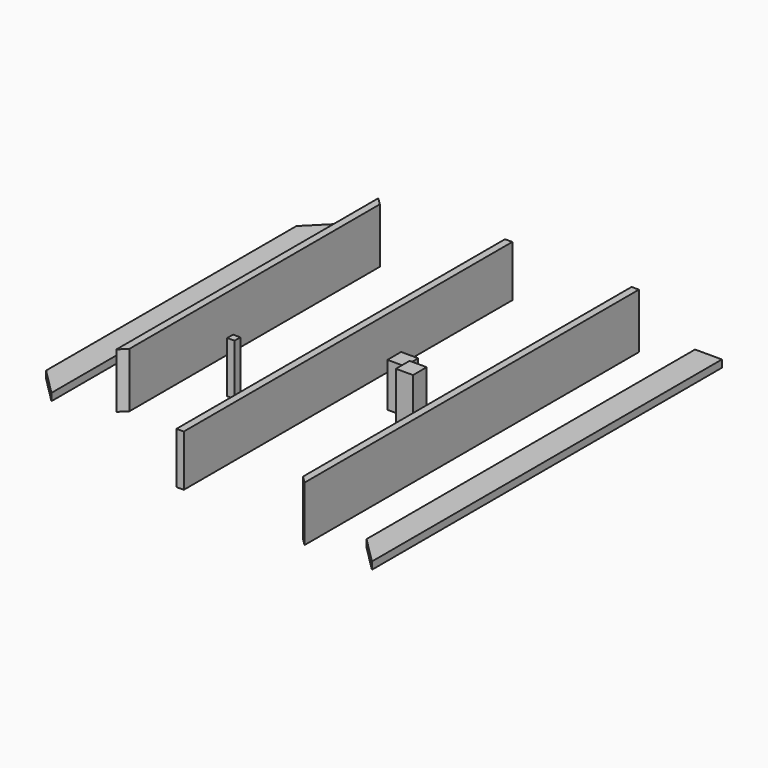
from build123d import *

# Parameters (mm, degrees)
F0_W      = 38.1
F0_H      = 2209.8
F1_DEPTH  = 285.75
F3_DEPTH  = 285.751
F4_W      = 38.1
F4_H      = 1701.8
F5_DEPTH  = 285.75
F7_DEPTH  = 285.751
F9_DEPTH  = 285.751
F10_W     = 38.1
F10_H     = 2133.6
F11_DEPTH = 266.7
F12_W     = 38.1
F12_H     = 38.1
F13_DEPTH = 266.7
F14_W     = 88.9
F14_H     = 88.9
F15_DEPTH = 228.6
F16_W     = 139.7
F16_H     = 2311.4
F17_DEPTH = 38.1
F19_DEPTH = 38.101
F20_W     = 139.7
F20_H     = 1905
F21_DEPTH = 38.1
F23_DEPTH = 38.101
F25_DEPTH = 38.101
F26_W     = 88.9
F26_H     = 285.75
F27_DEPTH = 88.9
F29_DEPTH = 285.751
F31_DEPTH = 285.751
F32_W     = 139.7
F32_H     = 38.121408
F33_DEPTH = 38.101


with BuildPart() as f1:
    # F0 (on Top) → F1 (new body)
    with BuildSketch(Plane.XY):
        with Locations((0, 29.220348)):
            Rectangle(F0_W, F0_H)
    extrude(amount=F1_DEPTH)

    # F2 (on face) → F3 (cut, through all)
    with BuildSketch(Plane.XY.offset(285.75)):
        Polygon((-19.05, -1075.679652), (19.05, -1075.679652), (-19.05, -1037.579652), align=None)
    extrude(amount=-F3_DEPTH, mode=Mode.SUBTRACT)

    # F28 (on face) → F29 (cut, through all)
    with BuildSketch(Plane.XY.offset(285.75)):
        Polygon((19.05, 1134.120348), (-19.05, 1134.120348), (-19.05, 1096.020348), align=None)
    extrude(amount=-F29_DEPTH, mode=Mode.SUBTRACT)

    # F30 (on face) → F31 (cut, through all)
    with BuildSketch(Plane.XY.offset(285.75)):
        Polygon((19.05, 1096.020348), (19.05, 1134.120348), (-19.05, 1096.020348), align=None)
    extrude(amount=-F31_DEPTH, mode=Mode.SUBTRACT)


with BuildPart() as f5:
    # F4 (on Top) → F5 (new body)
    with BuildSketch(Plane.XY):
        with Locations((-1289.192454, 211.927569)):
            Rectangle(F4_W, F4_H)
    extrude(amount=F5_DEPTH)

    # F6 (on face) → F7 (cut, through all)
    with BuildSketch(Plane.XY.offset(285.75)):
        Polygon((-1270.142454, 1024.727569), (-1270.142454, 1062.827569), (-1308.242454, 1062.827569), align=None)
    extrude(amount=-F7_DEPTH, mode=Mode.SUBTRACT)

    # F8 (on face) → F9 (cut, through all)
    with BuildSketch(Plane.XY.offset(285.75)):
        Polygon((-1270.142454, -600.872431), (-1308.242454, -638.972431), (-1270.142454, -638.972431), align=None)
    extrude(amount=-F9_DEPTH, mode=Mode.SUBTRACT)


with BuildPart() as f11:
    # F10 (on Top) → F11 (new body)
    with BuildSketch(Plane.XY):
        with Locations((-685.839234, 64.468862)):
            Rectangle(F10_W, F10_H)
    extrude(amount=F11_DEPTH)


with BuildPart() as f13:
    # F12 (on Top) → F13 (new body)
    with BuildSketch(Plane.XY):
        with Locations((-1023.695287, -231.63034)):
            Rectangle(F12_W, F12_H)
    extrude(amount=F13_DEPTH)


with BuildPart() as f15:
    # F14 (on Top) → F15 (new body)
    with BuildSketch(Plane.XY):
        with Locations((-416.393369, 107.158791)):
            Rectangle(F14_W, F14_H)
    extrude(amount=F15_DEPTH)


with BuildPart() as f17:
    # F16 (on Top) → F17 (new body)
    with BuildSketch(Plane.XY):
        with Locations((298.18053, 81.449066)):
            Rectangle(F16_W, F16_H)
    extrude(amount=F17_DEPTH)

    # F18 (on face) → F19 (cut, through all)
    with BuildSketch(Plane.XY.offset(38.1)):
        Polygon((228.33053, -934.550934), (228.33053, -1074.250934), (368.03053, -1074.250934), align=None)
    extrude(amount=-F19_DEPTH, mode=Mode.SUBTRACT)

    # F32 (on face) → F33 (cut, through all)
    with BuildSketch(Plane.XY.offset(38.1)):
        with Locations((298.18053, 1218.088362)):
            Rectangle(F32_W, F32_H)
    extrude(amount=-F33_DEPTH, mode=Mode.SUBTRACT)


with BuildPart() as f21:
    # F20 (on Top) → F21 (new body)
    with BuildSketch(Plane.XY):
        with Locations((-1642.440043, 222.794294)):
            Rectangle(F20_W, F20_H)
    extrude(amount=F21_DEPTH)

    # F22 (on face) → F23 (cut, through all)
    with BuildSketch(Plane.XY.offset(38.1)):
        Polygon((-1712.290043, 1035.594294), (-1572.590043, 1175.294294), (-1712.290043, 1175.294294), align=None)
    extrude(amount=-F23_DEPTH, mode=Mode.SUBTRACT)

    # F24 (on face) → F25 (cut, through all)
    with BuildSketch(Plane.XY.offset(38.1)):
        Polygon((-1712.290043, -729.705706), (-1572.590043, -729.705706), (-1712.290043, -590.005706), align=None)
    extrude(amount=-F25_DEPTH, mode=Mode.SUBTRACT)


with BuildPart() as f27:
    # F26 (on Front) → F27 (new body)
    with BuildSketch(Plane.XZ):
        with Locations((-251.136882, 160.274221)):
            Rectangle(F26_W, F26_H)
    extrude(amount=F27_DEPTH)


solid = Compound([f1.part, f5.part, f11.part, f13.part, f15.part, f17.part, f21.part, f27.part])
